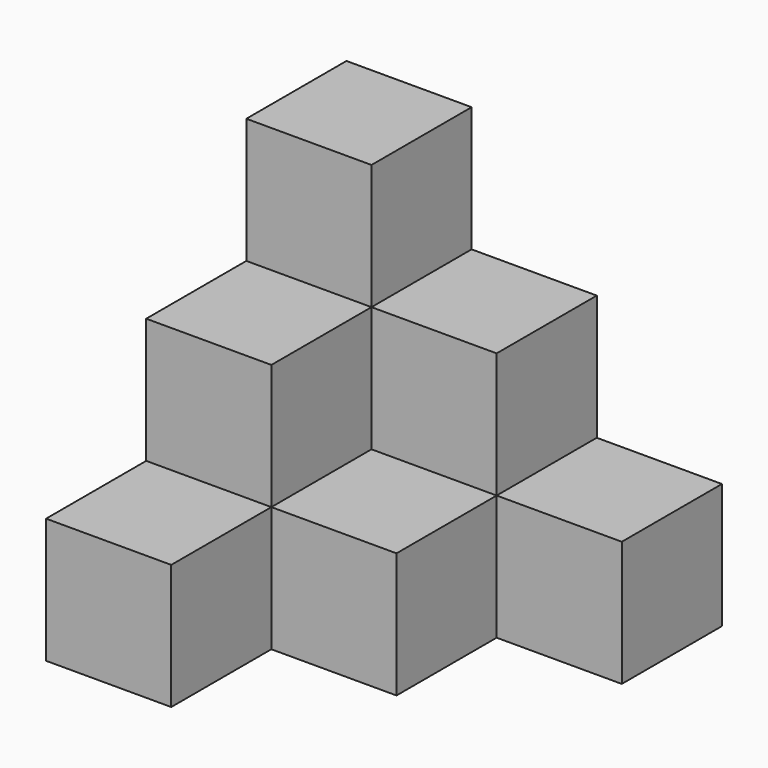
from build123d import *

# Parameters (mm, degrees)
BOX_W        = 10
BOX_H        = 10
BOX_DEPTH    = 20
BOX001_W     = 10
BOX001_H     = 10
BOX001_DEPTH = 10
BOX002_W     = 10
BOX002_H     = 10
BOX002_DEPTH = 10
BOX003_W     = 10
BOX003_H     = 10
BOX003_DEPTH = 20
BOX004_W     = 10
BOX004_H     = 10
BOX004_DEPTH = 10
BOX005_W     = 10
BOX005_H     = 10
BOX005_DEPTH = 30


with BuildPart() as nivell2_cub1:
    # Box → Box (new body)
    with BuildSketch(Plane.XY):
        with Locations((5, 5)):
            Rectangle(BOX_W, BOX_H)
    extrude(amount=BOX_DEPTH)


with BuildPart() as nivell1_cub2:
    # Box001 → Box001 (new body)
    with BuildSketch(Plane(origin=(10, 0, 0), x_dir=(1, 0, 0), z_dir=(0, 0, 1))):
        with Locations((5, 5)):
            Rectangle(BOX001_W, BOX001_H)
    extrude(amount=BOX001_DEPTH)


with BuildPart() as nivell1_cub1:
    # Box002 → Box002 (new body)
    with BuildSketch(Plane(origin=(0, -10, 0), x_dir=(1, 0, 0), z_dir=(0, 0, 1))):
        with Locations((5, 5)):
            Rectangle(BOX002_W, BOX002_H)
    extrude(amount=BOX002_DEPTH)


with BuildPart() as nivell2_cub003:
    # Box003 → Box003 (new body)
    with BuildSketch(Plane(origin=(10, 10, 0), x_dir=(1, 0, 0), z_dir=(0, 0, 1))):
        with Locations((5, 5)):
            Rectangle(BOX003_W, BOX003_H)
    extrude(amount=BOX003_DEPTH)


with BuildPart() as nivell1_cub3:
    # Box004 → Box004 (new body)
    with BuildSketch(Plane(origin=(20, 10, 0), x_dir=(1, 0, 0), z_dir=(0, 0, 1))):
        with Locations((5, 5)):
            Rectangle(BOX004_W, BOX004_H)
    extrude(amount=BOX004_DEPTH)


with BuildPart() as nivell3_cub1:
    # Box005 → Box005 (new body)
    with BuildSketch(Plane(origin=(0, 10, 0), x_dir=(1, 0, 0), z_dir=(0, 0, 1))):
        with Locations((5, 5)):
            Rectangle(BOX005_W, BOX005_H)
    extrude(amount=BOX005_DEPTH)


solid = Compound([nivell2_cub1.part, nivell1_cub2.part, nivell1_cub1.part, nivell2_cub003.part, nivell1_cub3.part, nivell3_cub1.part])
